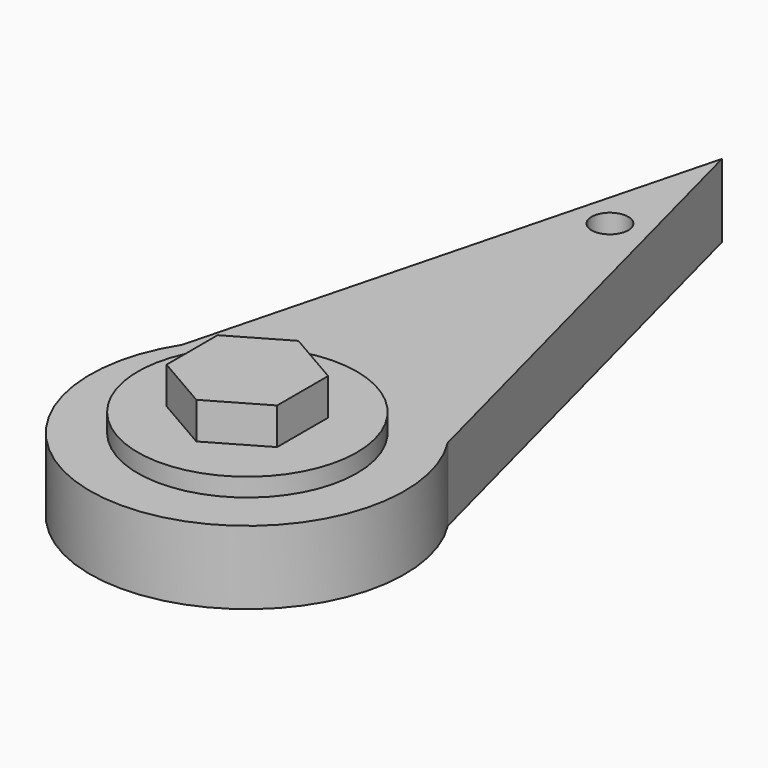
from build123d import *

# Parameters (mm, degrees)
F2_R     = 1.27
F3_DEPTH = 5.08
F0_R     = 10.902803
F4_DEPTH = 5.08
F5_R     = 7.588096
F6_DEPTH = 1.27
F8_DEPTH = 2.54


with BuildPart() as f3:
    # F2 (on face) → F3 (new body)
    with BuildSketch(Plane.XY):
        Polygon((10.719042, 0), (0, 41.089665), (-10.719042, 0), align=None)
        with Locations((0, 31.391483)):
            Circle(F2_R, mode=Mode.SUBTRACT)
    extrude(amount=F3_DEPTH)

    # F0 (on Top) → F4 (join)
    with BuildSketch(Plane.XY):
        Circle(F0_R)
    extrude(amount=F4_DEPTH)

    # F5 (on face) → F6 (join)
    with BuildSketch(Plane.XY.offset(5.08)):
        Circle(F5_R)
    extrude(amount=F6_DEPTH)

    # F7 (on face) → F8 (join)
    with BuildSketch(Plane.XY.offset(6.35)):
        Polygon((3.828231, -2.21023), (3.828231, 2.21023), (0, 4.42046), (-3.828231, 2.21023), (-3.828231, -2.21023), (0, -4.42046), align=None)
    extrude(amount=F8_DEPTH)


solid = f3.part
